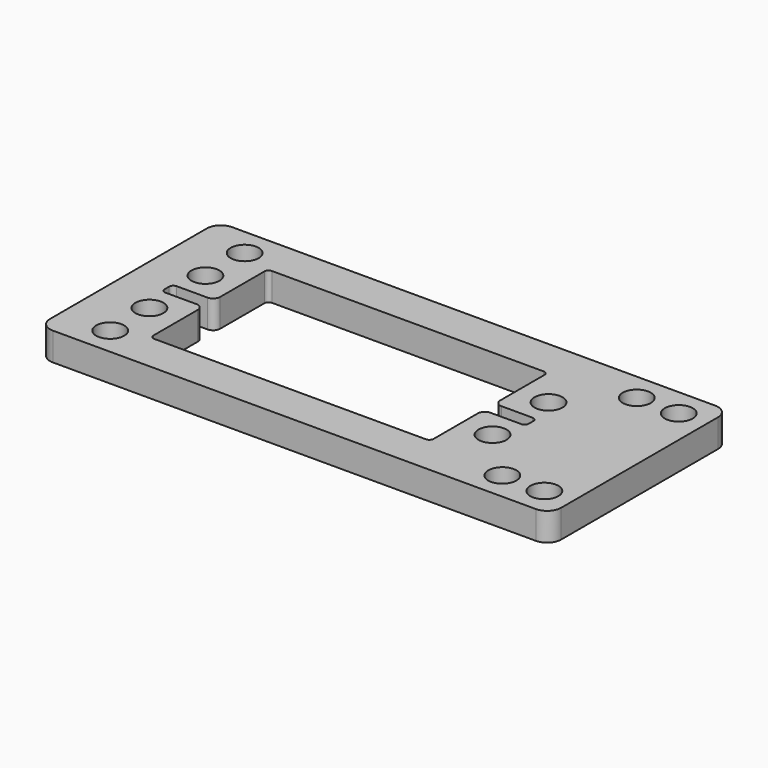
from build123d import *

# Parameters (mm, degrees)
SKETCH007_W = 73
SKETCH007_H = 32
SKETCH007_R = 2
PAD_DEPTH   = 4
FILLET_R    = 0.6
FILLET001_R = 1
FILLET002_R = 0.6
FILLET003_R = 2


with BuildPart() as part:
    # Sketch007 → Pad (new body)
    with BuildSketch(Plane.XY.offset(-3)):
        with Locations((-6, 0)):
            Rectangle(SKETCH007_W, SKETCH007_H)
        with Locations((-35.5, 5)):
            Circle(SKETCH007_R, mode=Mode.SUBTRACT)
        with Locations((-35.5, -5)):
            Circle(SKETCH007_R, mode=Mode.SUBTRACT)
        with Locations((13.5, 5)):
            Circle(SKETCH007_R, mode=Mode.SUBTRACT)
        with Locations((13.5, -5)):
            Circle(SKETCH007_R, mode=Mode.SUBTRACT)
        with Locations((-35.5, 12)):
            Circle(SKETCH007_R, mode=Mode.SUBTRACT)
        with Locations((-35.5, -12)):
            Circle(SKETCH007_R, mode=Mode.SUBTRACT)
        with Locations((20.5, 12)):
            Circle(SKETCH007_R, mode=Mode.SUBTRACT)
        with Locations((20.5, -12)):
            Circle(SKETCH007_R, mode=Mode.SUBTRACT)
        with Locations((26.5, -12)):
            Circle(SKETCH007_R, mode=Mode.SUBTRACT)
        with Locations((26.5, 12)):
            Circle(SKETCH007_R, mode=Mode.SUBTRACT)
        Polygon((-31, 10.5), (9, 10.5), (9, 1), (15, 1), (15, -1), (9, -1), (9, -10.5), (-31, -10.5), (-31, -1), (-37, -1), (-37, 1), (-31, 1), align=None, mode=Mode.SUBTRACT)
    extrude(amount=PAD_DEPTH)

    # Fillet
    fillet_edges = [part.edges().sort_by_distance(p)[0] for p in [
        (9, -10.5, -1),
        (9, 10.5, -1),
        (-31, 10.5, -1),
        (-31, -10.5, -1),
    ]]
    fillet(fillet_edges, radius=FILLET_R)

    # Fillet001
    fillet001_edges = [part.edges().sort_by_distance(p)[0] for p in [
        (-31, -1, -1),
        (-31, 1, -1),
        (9, -1, -1),
        (9, 1, -1),
    ]]
    fillet(fillet001_edges, radius=FILLET001_R)

    # Fillet002
    fillet002_edges = [part.edges().sort_by_distance(p)[0] for p in [
        (-37, -1, -1),
        (-37, 1, -1),
        (15, -1, -1),
        (15, 1, -1),
    ]]
    fillet(fillet002_edges, radius=FILLET002_R)

    # Fillet003
    fillet003_edges = [part.edges().sort_by_distance(p)[0] for p in [
        (30.5, 16, -1),
        (30.5, -16, -1),
        (-42.5, 16, -1),
        (-42.5, -16, -1),
    ]]
    fillet(fillet003_edges, radius=FILLET003_R)


solid = part.part
